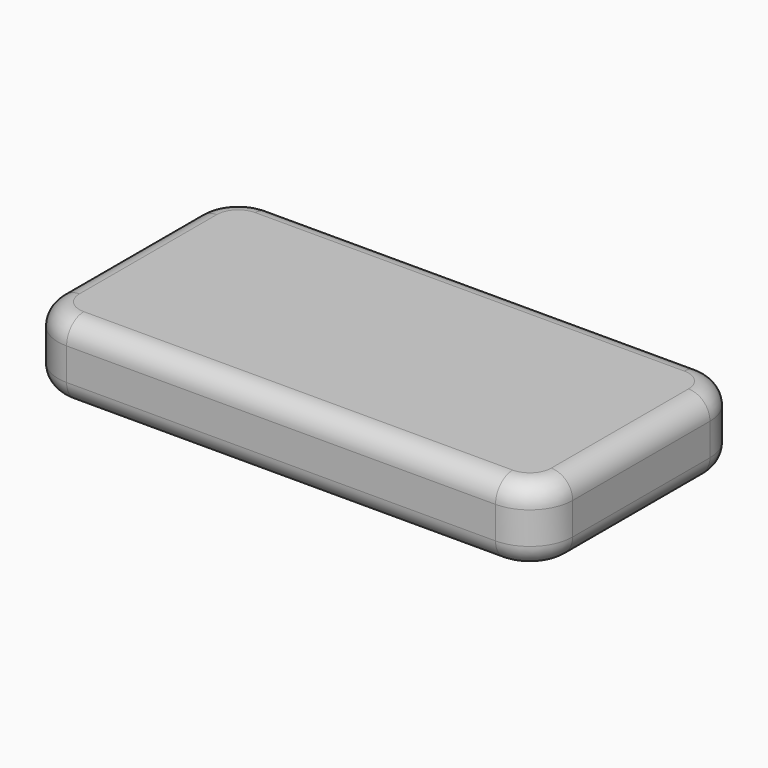
from build123d import *

# Parameters (mm, degrees)
F0_W     = 609.6
F0_H     = 304.8
F1_DEPTH = 88.9
F2_R     = 50.8
F3_R     = 25.4


with BuildPart() as f1:
    # F0 (on Top) → F1 (new body)
    with BuildSketch(Plane.XY):
        Rectangle(F0_W, F0_H)
    extrude(amount=F1_DEPTH)

    # F2
    f2_edges = [f1.edges().sort_by_distance(p)[0] for p in [
        (-304.8, 152.4, 44.45),
        (-304.8, -152.4, 44.45),
        (304.8, -152.4, 44.45),
        (304.8, 152.4, 44.45),
    ]]
    fillet(f2_edges, radius=F2_R)

    # F3
    f3_edges = [f1.edges().sort_by_distance(p)[0] for p in [
        (0, -152.4, 88.9),
        (0, 152.4, 88.9),
        (0, 152.4, 0),
    ]]
    fillet(f3_edges, radius=F3_R)


solid = f1.part
